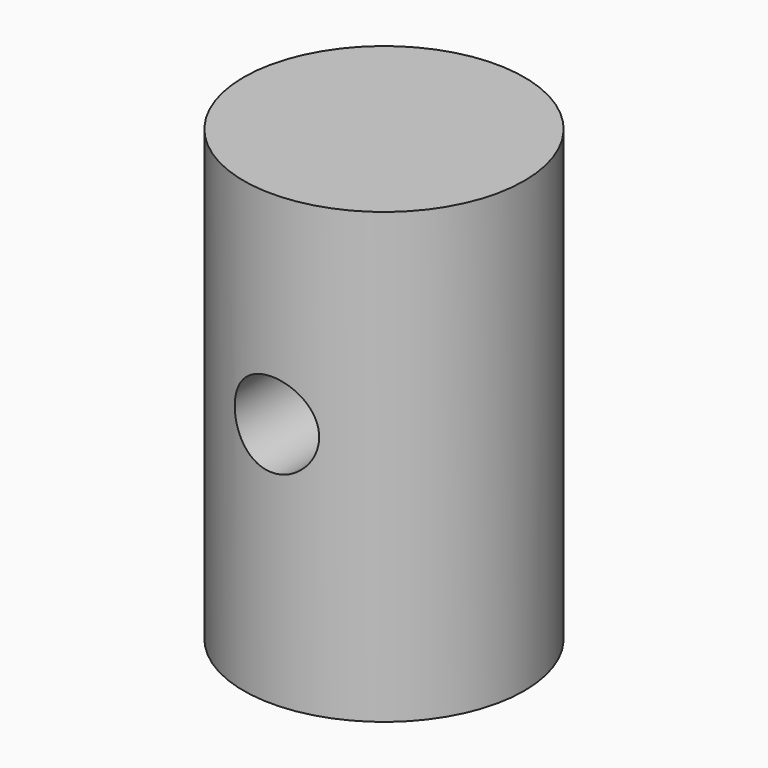
from build123d import *

# Parameters (mm, degrees)
F0_R     = 46.877092
F1_DEPTH = 150
F3_R     = 14.100761
F4_DEPTH = 100


with BuildPart() as f1:
    # F0 (on Top) → F1 (new body)
    with BuildSketch(Plane.XY):
        Circle(F0_R)
    extrude(amount=F1_DEPTH)

    # F3 (on offset) → F4 (cut)
    with BuildSketch(Plane.XZ.offset(50)):
        with Locations((0, 82.133539)):
            Circle(F3_R)
    extrude(amount=-F4_DEPTH, mode=Mode.SUBTRACT)


solid = f1.part
